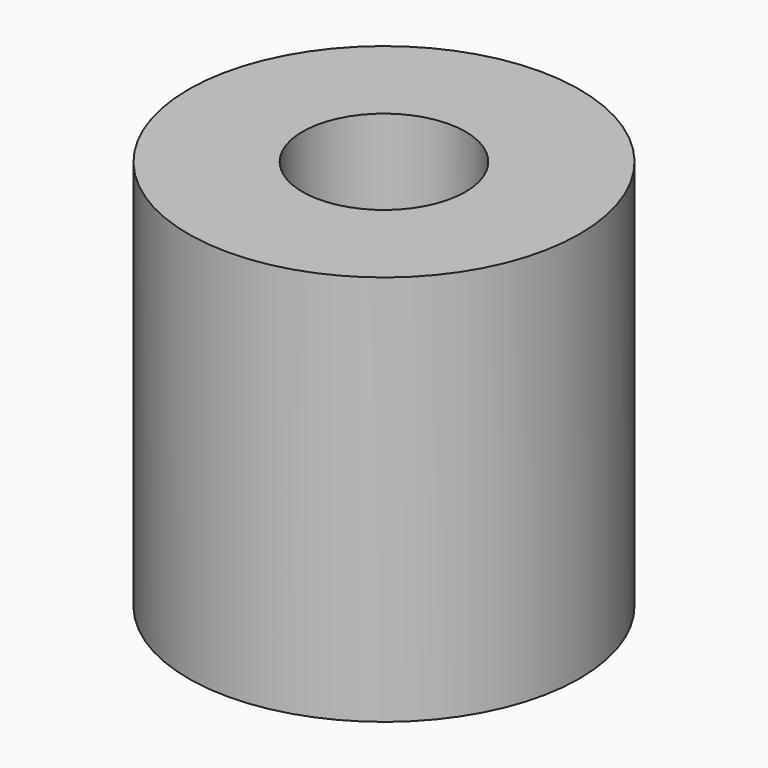
from build123d import *

# Parameters (mm, degrees)
CYLINDER017_R     = 1.25
CYLINDER017_DEPTH = 5
CYLINDER009_R     = 3
CYLINDER009_DEPTH = 6


with BuildPart() as obj1:
    # Cylinder017 → Cylinder017 (new body)
    with BuildSketch(Plane(origin=(10, 14, 3), x_dir=(1, 0, 0), z_dir=(0, 0, 1))):
        Circle(CYLINDER017_R)
    extrude(amount=CYLINDER017_DEPTH)


with BuildPart() as h_cut:
    # Cylinder009 → Cylinder009 (new body)
    with BuildSketch(Plane(origin=(10, 14, 0), x_dir=(1, 0, 0), z_dir=(0, 0, 1))):
        Circle(CYLINDER009_R)
    extrude(amount=CYLINDER009_DEPTH)

    # Cut: cut obj1
    add(obj1.part, mode=Mode.SUBTRACT)


with BuildPart() as h_cut_1:
    # Cut placement: moved
    add(h_cut.part.moved(Location((19, 1.5, 0))))


solid = h_cut_1.part
